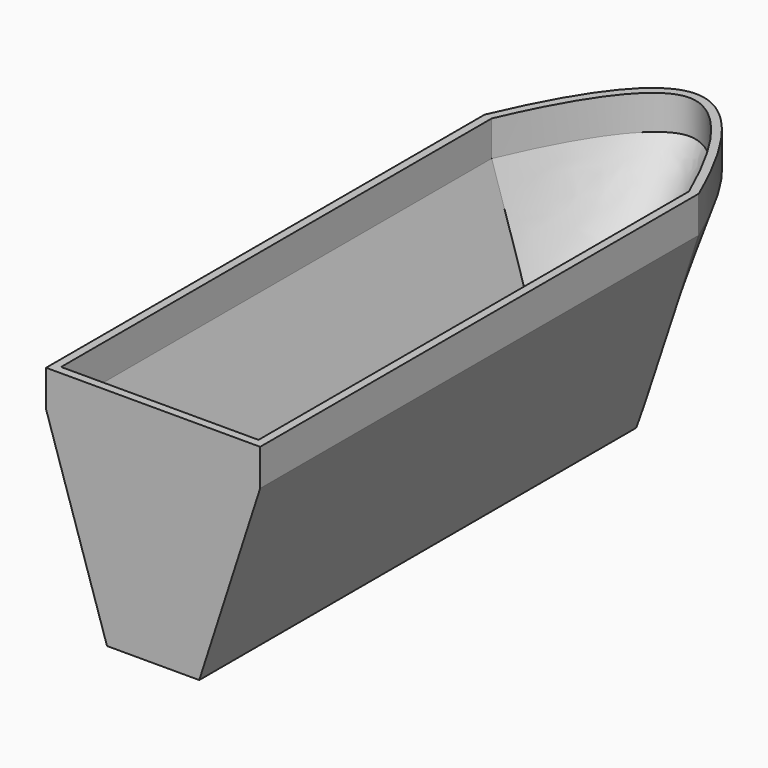
from build123d import *

# Parameters (mm, degrees)
F2_W     = 17.66667
F2_H     = 105
F4_DEPTH = 7
F5_T     = -1.6
F6_R     = 0.5


with BuildPart() as f3:
    # F1 (on offset) → F3 section 0
    with BuildSketch(Plane.XY.offset(36.125)):
        with BuildLine():
            add(Edge.make_bspline(
                [(-20.5, 0), (-14, 15), (0, 35), (14, 15), (20.5, 0)],
                knots=[0, 0, 0, 0, 0.5, 1, 1, 1, 1], degree=3))
            Line((-20.5, 0), (-20.5, -105))
            Line((-20.5, -105), (20.5, -105))
            Line((20.5, -105), (20.5, 0))
        make_face()
    # F2 (on Top) → F3 section 1
    with BuildSketch(Plane.XY):
        with Locations((-3.5e-05, -52.5)):
            Rectangle(F2_W, F2_H)
    loft()

    # F4 (add): a face of the model
    f4_faces = [f3.faces().sort_by_distance(p)[0] for p in [
        (4.4104e-06, -44.0610349969, 36.125),
    ]]
    extrude(f4_faces, amount=F4_DEPTH)

    # F5
    f5_openings = [f3.faces().sort_by_distance(p)[0] for p in [
        (4e-06, -44.061035, 43.125),
    ]]
    offset(amount=F5_T, openings=f5_openings)

    # F6
    f6_edges = [f3.edges().sort_by_distance(p)[0] for p in [
        (14.66665, 0, 18.0625),
        (-14.666685, 0, 18.0625),
    ]]
    fillet(f6_edges, radius=F6_R)


solid = f3.part
